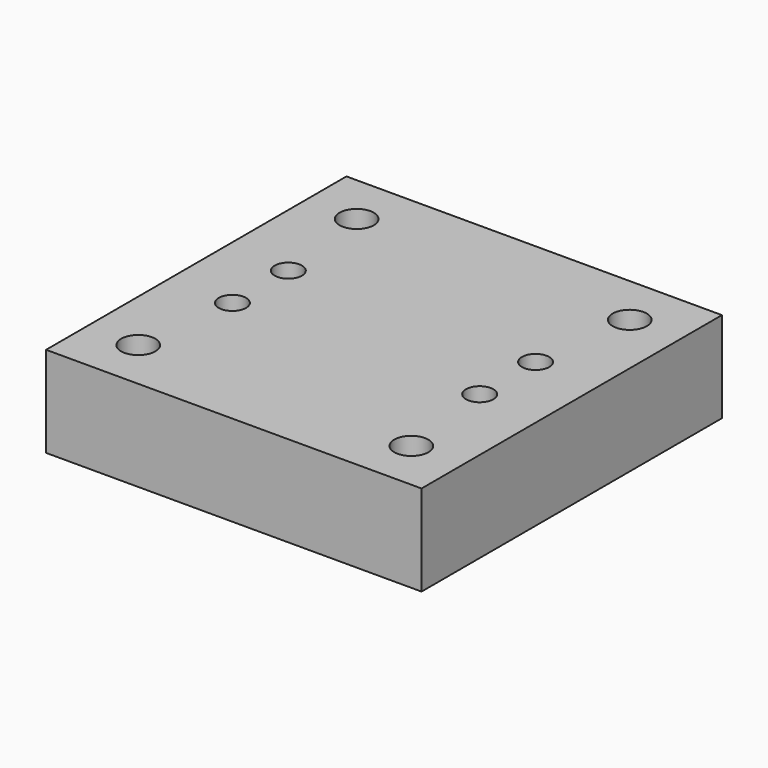
from build123d import *

# Parameters (mm, degrees)
F0_W     = 69.85
F0_H     = 69.85
F1_DEPTH = 16.891
F2_R     = 2.54
F3_DEPTH = 16.892
F4_R     = 3.175
F5_DEPTH = 16.892


with BuildPart() as f1:
    # F0 (on Top) → F1 (new body)
    with BuildSketch(Plane.XY):
        Rectangle(F0_W, F0_H)
    extrude(amount=F1_DEPTH)

    # F2 (on face) → F3 (cut, through all)
    with BuildSketch(Plane.XY.offset(16.891)):
        with Locations((-22.9997, 6.5024)):
            Circle(F2_R)
        with Locations((22.9997, 6.5024)):
            Circle(F2_R)
        with Locations((22.9997, -6.5024)):
            Circle(F2_R)
        with Locations((-22.9997, -6.5024)):
            Circle(F2_R)
    extrude(amount=-F3_DEPTH, mode=Mode.SUBTRACT)

    # F4 (on face) → F5 (cut, through all)
    with BuildSketch(Plane.XY.offset(16.891)):
        with Locations((-25.4, 25.4)):
            Circle(F4_R)
        with Locations((25.4, 25.4)):
            Circle(F4_R)
        with Locations((-25.4, -25.4)):
            Circle(F4_R)
        with Locations((25.4, -25.4)):
            Circle(F4_R)
    extrude(amount=-F5_DEPTH, mode=Mode.SUBTRACT)


solid = f1.part
